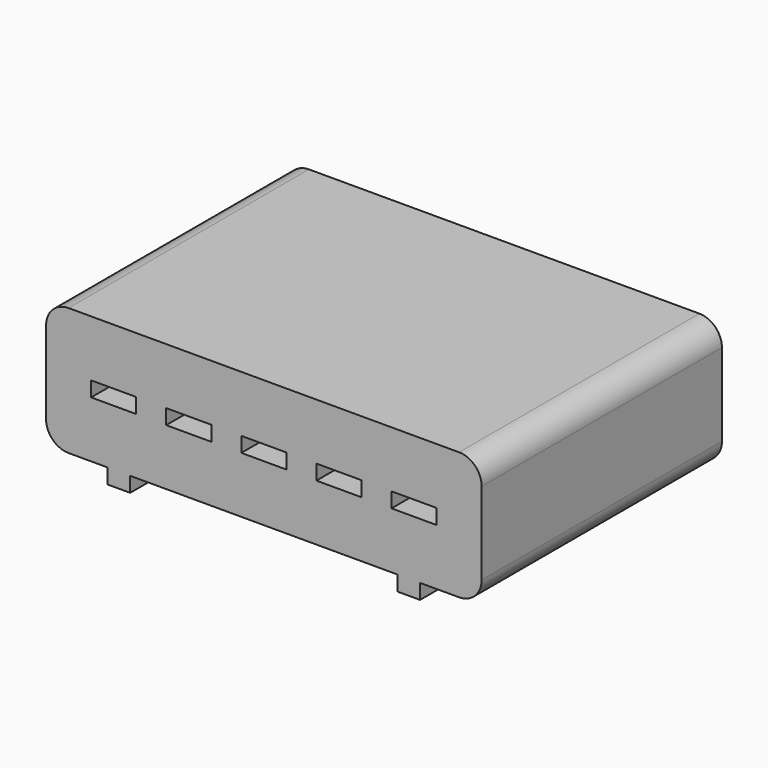
from build123d import *

# Parameters (mm, degrees)
F0_W     = 3
F0_H     = 1
F1_DEPTH = 20


with BuildPart() as f1:
    # F0 (on Front) → F1 (new body)
    with BuildSketch(Plane.XZ):
        with BuildLine():
            Line((14.527637, -2.455674), (-11.472363, -2.455674))
            ThreePointArc((-11.472363, -2.455674), (-12.533023, -2.895014), (-12.972363, -3.955674))
            Line((-12.972363, -3.955674), (-12.972363, -9.455674))
            ThreePointArc((-12.972363, -9.455674), (-12.533023, -10.516334), (-11.472363, -10.955674))
            Line((-11.472363, -10.955674), (-8.872363, -10.955674))
            Line((-8.872363, -10.955674), (-8.872363, -11.955674))
            Line((-8.872363, -11.955674), (-7.372363, -11.955674))
            Line((-7.372363, -11.955674), (-7.372363, -10.955674))
            Line((-7.372363, -10.955674), (10.427637, -10.955674))
            Line((10.427637, -10.955674), (10.427637, -11.955674))
            Line((10.427637, -11.955674), (11.927637, -11.955674))
            Line((11.927637, -11.955674), (11.927637, -10.955674))
            Line((11.927637, -10.955674), (14.527637, -10.955674))
            ThreePointArc((14.527637, -10.955674), (15.588297, -10.516334), (16.027637, -9.455674))
            Line((16.027637, -9.455674), (16.027637, -3.955674))
            ThreePointArc((16.027637, -3.955674), (15.588297, -2.895014), (14.527637, -2.455674))
        make_face()
        with Locations((-8.472363, -6.705674)):
            Rectangle(F0_W, F0_H, mode=Mode.SUBTRACT)
        with Locations((-3.472363, -6.705674)):
            Rectangle(F0_W, F0_H, mode=Mode.SUBTRACT)
        with Locations((1.527637, -6.705674)):
            Rectangle(F0_W, F0_H, mode=Mode.SUBTRACT)
        with Locations((6.527637, -6.705674)):
            Rectangle(F0_W, F0_H, mode=Mode.SUBTRACT)
        with Locations((11.527637, -6.705674)):
            Rectangle(F0_W, F0_H, mode=Mode.SUBTRACT)
    extrude(amount=-F1_DEPTH)


solid = f1.part
